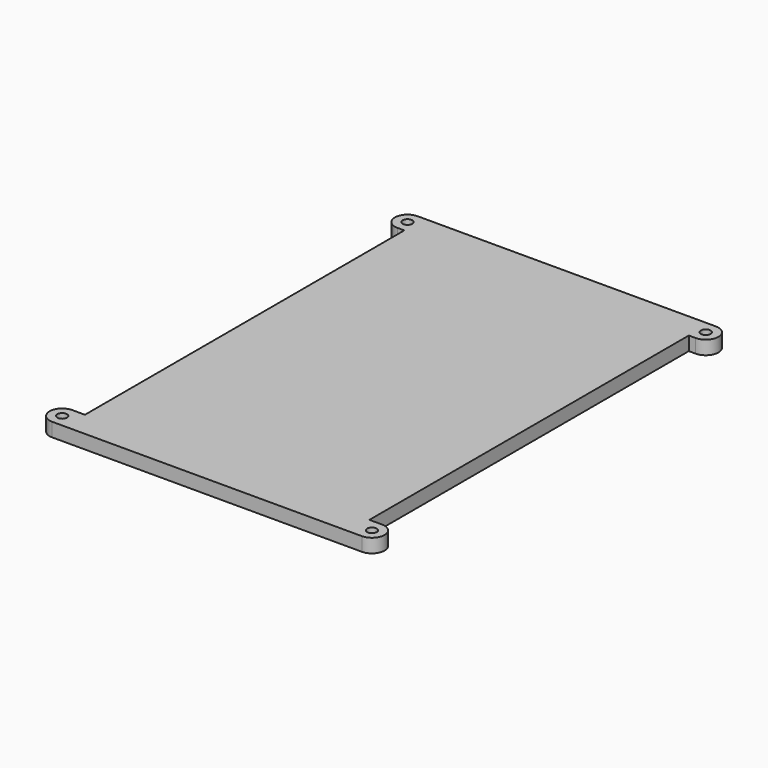
from build123d import *

# Parameters (mm, degrees)
F0_R     = 1.05
F1_DEPTH = 3


with BuildPart() as f1:
    # F0 (on Top) → F1 (new body)
    with BuildSketch(Plane.XY):
        with BuildLine():
            Line((-31, -43.5), (-33.75, -43.5))
            ThreePointArc((-33.75, -43.5), (-36.5, -46.25), (-33.75, -49))
            Line((-33.75, -49), (33.75, -49))
            ThreePointArc((33.75, -49), (36.5, -46.25), (33.75, -43.5))
            Line((33.75, -43.5), (31, -43.5))
            Line((31, -43.5), (31, 43.5))
            Line((31, 43.5), (32.5, 43.5))
            ThreePointArc((32.5, 43.5), (35.25, 46.25), (32.5, 49))
            Line((32.5, 49), (-32.5, 49))
            ThreePointArc((-32.5, 49), (-35.25, 46.25), (-32.5, 43.5))
            Line((-32.5, 43.5), (-31, 43.5))
            Line((-31, 43.5), (-31, -43.5))
        make_face()
        with Locations((-33.75, -46.25)):
            Circle(F0_R, mode=Mode.SUBTRACT)
        with Locations((33.75, -46.25)):
            Circle(F0_R, mode=Mode.SUBTRACT)
        with Locations((-32.5, 46.25)):
            Circle(F0_R, mode=Mode.SUBTRACT)
        with Locations((32.5, 46.25)):
            Circle(F0_R, mode=Mode.SUBTRACT)
    extrude(amount=F1_DEPTH)


solid = f1.part
